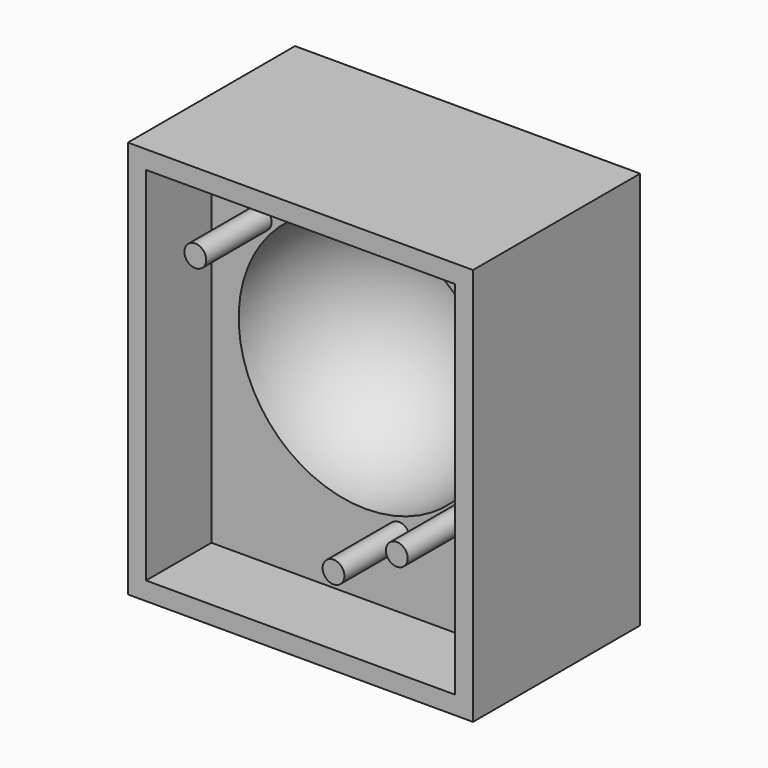
from build123d import *

# Parameters (mm, degrees)
CUBE002_W     = 38
CUBE002_H     = 3
CUBE002_DEPTH = 43.8
CUBE001_W     = 38
CUBE001_H     = 19
CUBE001_DEPTH = 43.8
SKETCH002_W   = 38
SKETCH002_H   = 43.8
PAD002_DEPTH  = 17
SKETCH003_R   = 1.2
PAD003_DEPTH  = 9
SKETCH004_W   = 38
SKETCH004_H   = 43.8
SKETCH004_W_2 = 34
SKETCH004_H_2 = 39.8
PAD004_DEPTH  = 9


with BuildPart() as cube002:
    # cube002 → cube002 (new body)
    with BuildSketch(Plane(origin=(-19, -3, 0), x_dir=(1, 0, 0), z_dir=(0, 0, 1))):
        with Locations((19, 1.5)):
            Rectangle(CUBE002_W, CUBE002_H)
    extrude(amount=CUBE002_DEPTH)


with BuildPart() as cube001:
    # cube001 → cube001 (new body)
    with BuildSketch(Plane(origin=(-19, 0, 0), x_dir=(1, 0, 0), z_dir=(0, 0, 1))):
        with Locations((19, 9.5)):
            Rectangle(CUBE001_W, CUBE001_H)
    extrude(amount=CUBE001_DEPTH)


with BuildPart() as group003:
    # sphere001 → sphere001 (revolve)
    with BuildSketch(Plane(origin=(0, 0, 24.8), x_dir=(1, 0, 0), z_dir=(0, -1, 0))):
        with BuildLine():
            ThreePointArc((0, -14), (14, 0), (0, 14))
            Line((0, 14), (0, -14))
        make_face()
    revolve(axis=Axis((0, 0, 24.8), (0, 0, 1)))

    # intersection: intersect cube001
    add(cube001.part, mode=Mode.INTERSECT)

    # Group003: union cube002
    add(cube002.part)


with BuildPart() as pad004:
    # Pad002 base: copy of Group003
    add(group003.part)

    # Sketch002 → Pad002 (new body)
    with BuildSketch(Plane.XZ.offset(3)):
        with Locations((0, 21.9)):
            Rectangle(SKETCH002_W, SKETCH002_H)
    extrude(amount=-PAD002_DEPTH)

    # Cut: cut Group003
    add(group003.part, mode=Mode.SUBTRACT)


with BuildPart() as pad004_1:
    # Cut placement: moved
    add(pad004.part.moved(Location((38, -12, -3))))

    # Sketch003 → Pad003 (new body)
    with BuildSketch(Plane(origin=(38, -12, -3), x_dir=(1, 0, 0), z_dir=(0, -1, 0))):
        with Locations((-11.577259, 35.235146)):
            Circle(SKETCH003_R)
        with Locations((10.612975, 13.512618)):
            Circle(SKETCH003_R)
        with Locations((3.638596, 9.535999)):
            Circle(SKETCH003_R)
    extrude(amount=PAD003_DEPTH)

    # Sketch004 → Pad004 (new body)
    with BuildSketch(Plane(origin=(38, -12, -3), x_dir=(1, 0, 0), z_dir=(0, -1, 0))):
        with Locations((0, 21.9)):
            Rectangle(SKETCH004_W, SKETCH004_H)
        with Locations((0, 21.9)):
            Rectangle(SKETCH004_W_2, SKETCH004_H_2, mode=Mode.SUBTRACT)
    extrude(amount=PAD004_DEPTH)


solid = pad004_1.part
